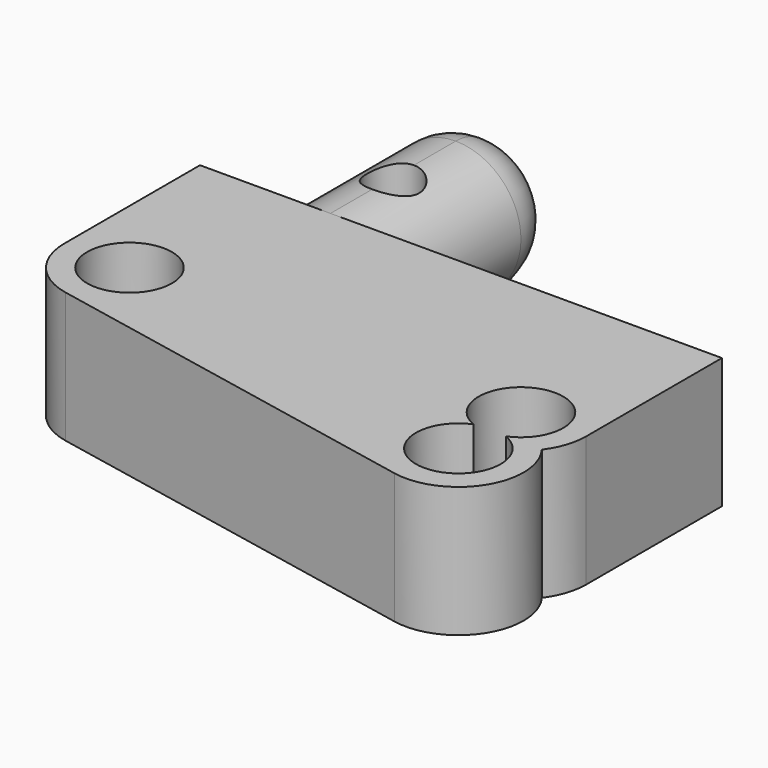
from build123d import *

# Parameters (mm, degrees)
F0_R     = 1.625
F1_DEPTH = 5
F3_DEPTH = 8
F5_R     = 2
F6_R     = 1
F7_DEPTH = 5.001


with BuildPart() as f1:
    # F0 (on Top) → F1 (new body)
    with BuildSketch(Plane.XY):
        with BuildLine():
            Line((-10, 6.5), (-10, 0))
            ThreePointArc((-10, 0), (-9.433355, -1.584972), (-7.99029, -2.451452))
            Line((-7.99029, -2.451452), (7.00971, -5.451452))
            ThreePointArc((7.00971, -5.451452), (9.615017, -4.33293), (9.5, -1.5))
            ThreePointArc((9.5, -1.5), (9.871708, -0.790569), (10, 0))
            Line((10, 0), (10, 6.5))
            Line((10, 6.5), (-10, 6.5))
        make_face()
        with Locations((-7.5, 0)):
            Circle(F0_R, mode=Mode.SUBTRACT)
        with BuildLine():
            ThreePointArc((6.875, -1.5), (7.5, 1.625), (8.125, -1.5))
            ThreePointArc((8.125, -1.5), (7.5, -4.625), (6.875, -1.5))
        make_face(mode=Mode.SUBTRACT)
    extrude(amount=F1_DEPTH)

    # F2 (on face) → F3 (join)
    with BuildSketch(Plane(origin=(0, 6.5, 0), x_dir=(-1, 0, 0), z_dir=(0, 1, 0))):
        with BuildLine():
            Line((6.276674, 0), (7.025208, 1.034212))
            ThreePointArc((7.025208, 1.034212), (7.226485, 3.636998), (5, 5))
            ThreePointArc((5, 5), (2.773515, 3.636998), (2.974792, 1.034212))
            Line((2.974792, 1.034212), (3.723326, 0))
            Line((3.723326, 0), (6.276674, 0))
        make_face()
    extrude(amount=F3_DEPTH)

    # F5
    f5_edges = [f1.edges().sort_by_distance(p)[0] for p in [
        (-3.349059, 14.5, 0.517106),
        (-5, 14.5, 0),
        (-6.650941, 14.5, 0.517106),
        (-5, 14.5, 5),
    ]]
    fillet(f5_edges, radius=F5_R)

    # F6 (on face) → F7 (cut, through all)
    with BuildSketch(Plane(origin=(0, 0, 0), x_dir=(1, 0, 0), z_dir=(0, 0, -1))):
        with Locations((-5, -9.5)):
            Circle(F6_R)
    extrude(amount=-F7_DEPTH, mode=Mode.SUBTRACT)


solid = f1.part
